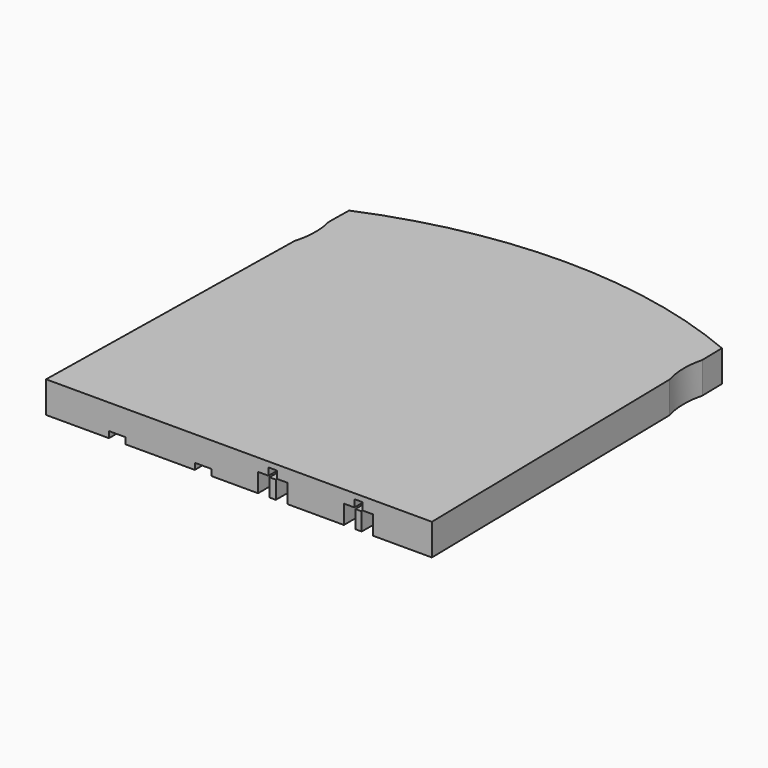
from build123d import *

# Parameters (mm, degrees)
F1_DEPTH  = 1.5
F2_R      = 1.7
F3_DEPTH  = 1.2
F5_DEPTH  = 1
F6_W      = 0.8
F6_H      = 2.7
F7_DEPTH  = 0.3
F8_W      = 0.55
F8_H      = 0.9
F9_DEPTH  = 1.2
F10_W     = 0.3
F10_H     = 0.3
F10_W_2   = 0.0500000367
F10_H_2   = 0.05
F10_W_3   = 0.0499999633
F11_DEPTH = 1


with BuildPart() as f1:
    # F0 (on Top) → F1 (new body)
    with BuildSketch(Plane.XY):
        with BuildLine():
            Line((-8.9560451977, 14.5), (-9.21, 0))
            Line((-9.21, 0), (9.21, 0))
            Line((9.21, 0), (8.9560451977, 14.5))
            ThreePointArc((8.9560451977, 14.5), (8.8000416812, 15.4975744796), (8.9210169492, 16.5))
            Line((8.9210169492, 16.5), (8.9, 17.7))
            Line((8.9, 17.7), (-8.9, 17.7))
            Line((-8.9, 17.7), (-8.9210169492, 16.5))
            ThreePointArc((-8.9210169492, 16.5), (-8.8000416812, 15.4975744796), (-8.9560451977, 14.5))
        make_face()
        with BuildLine():
            ThreePointArc((8.9, 17.7), (0, 19.5), (-8.9, 17.7))
            Line((-8.9, 17.7), (8.9, 17.7))
        make_face()
    extrude(amount=F1_DEPTH)

    # F2 (on Top) → F3 (cut)
    with BuildSketch(Plane.XY):
        with Locations((5.6, 17)):
            Circle(F2_R)
        with Locations((-5.6, 17)):
            Circle(F2_R)
    extrude(amount=F3_DEPTH, mode=Mode.SUBTRACT)

    # F4 (on face) → F5 (cut)
    with BuildSketch(Plane(origin=(0, 0, 0), x_dir=(1, 0, 0), z_dir=(0, 0, -1))):
        Polygon((-9.1276836158, -4.7), (-0.71, -4.7), (-0.71, -2.7), (-9.1627118644, -2.7), align=None)
    extrude(amount=-F5_DEPTH, mode=Mode.SUBTRACT)

    # F6 (on face) → F7 (cut)
    with BuildSketch(Plane(origin=(0, 0, 0), x_dir=(1, 0, 0), z_dir=(0, 0, -1))):
        with Locations((-1.71, -1.35)):
            Rectangle(F6_W, F6_H)
        with Locations((-5.81, -1.35)):
            Rectangle(F6_W, F6_H)
    extrude(amount=-F7_DEPTH, mode=Mode.SUBTRACT)

    # F8 (on face) → F9 (cut)
    with BuildSketch(Plane.XZ):
        with Locations((6.135, 0.45)):
            Rectangle(F8_W, F8_H)
        with Locations((5.285, 0.45)):
            Rectangle(F8_W, F8_H)
        with Locations((1.185, 0.45)):
            Rectangle(F8_W, F8_H)
        with Locations((2.035, 0.45)):
            Rectangle(F8_W, F8_H)
    extrude(amount=-F9_DEPTH, mode=Mode.SUBTRACT)

    # F10 (on face) → F11 (cut)
    with BuildSketch(Plane.XZ):
        with Locations((1.6100000367, 1.05)):
            Rectangle(F10_W, F10_H)
        with Locations((1.7850000184, 0.875)):
            Rectangle(F10_W_2, F10_H_2)
        with Locations((1.61, 0.875)):
            Rectangle(F10_W, F10_H_2)
        with Locations((1.4350000184, 0.875)):
            Rectangle(F10_W_3, F10_H_2)
        Polygon((1.4100000367, 1.25), (1.4100000367, 0.9), (1.46, 0.9), (1.4600000367, 1.2), (1.7600000367, 1.2), (1.7600000367, 0.9), (1.8100000367, 0.9), (1.8100000367, 1.25), align=None)
        Polygon((5.5100000367, 1.25), (5.5100000367, 0.9), (5.56, 0.9), (5.5600000367, 1.2), (5.8600000367, 1.2), (5.8600000367, 0.9), (5.9100000367, 0.9), (5.9100000367, 1.25), align=None)
        with Locations((5.7100000367, 1.05)):
            Rectangle(F10_W, F10_H)
        with Locations((5.71, 0.875)):
            Rectangle(F10_W, F10_H_2)
        with Locations((5.8850000184, 0.875)):
            Rectangle(F10_W_2, F10_H_2)
        with Locations((5.5350000184, 0.875)):
            Rectangle(F10_W_3, F10_H_2)
    extrude(amount=-F11_DEPTH, mode=Mode.SUBTRACT)


solid = f1.part
